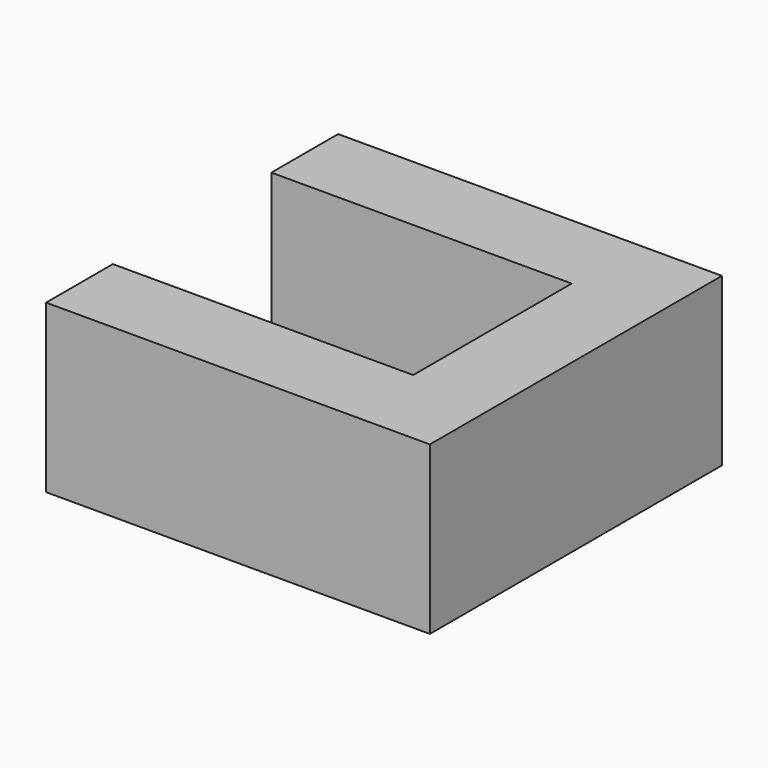
from build123d import *

# Parameters (mm, degrees)
PAD_DEPTH = 2


with BuildPart() as part:
    # Sketch → Pad (new body, symmetric)
    with BuildSketch(Plane.XY):
        Polygon((-7.2, 4.375), (2, 4.375), (2, -4.375), (-7.2, -4.375), (-7.2, -2.375), (0, -2.375), (0, 2.375), (-7.2, 2.375), align=None)
    extrude(amount=PAD_DEPTH, both=True)


solid = part.part
